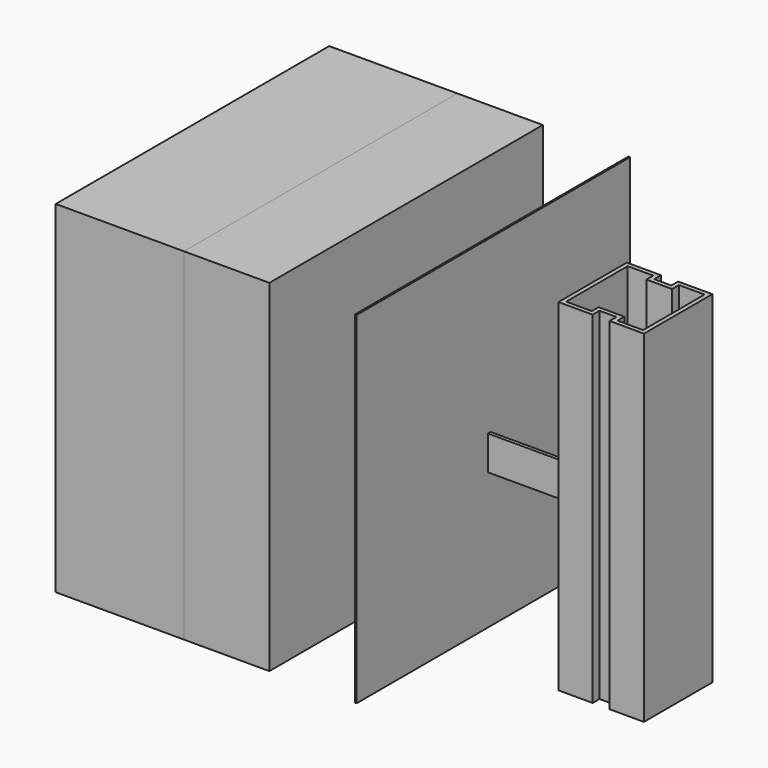
from build123d import *

# Parameters (mm, degrees)
F1_DEPTH       = 40
F3_DEPTH       = 40
F5_DEPTH       = 7.5
F6_R           = 1
F6_2_R         = 1
F9_DEPTH       = 200
F9_DEPTH_BACK  = 200
F10_W          = 150
F10_H          = 400
F11_DEPTH      = 200
F11_DEPTH_BACK = 200
F12_W          = 400
F12_H          = 400
F13_DEPTH      = 100
F16_W          = 400
F16_H          = 400
F17_DEPTH      = 2


with BuildPart() as f1:
    # F0 (on Top) → F1 (new body)
    with BuildSketch(Plane.XY):
        Polygon((125.2330060303, 64.6525276452), (-54.7669939697, 64.6525276452), (-54.7669939697, 24.6525276452), (-50.7669939697, 24.6525276452), (-50.7669939697, 60.6525276452), (125.2330060303, 60.6525276452), align=None)
    extrude(amount=F1_DEPTH)


with BuildPart() as f3:
    # F2 (on Top) → F3 (new body)
    with BuildSketch(Plane.XY):
        Polygon((275.2330060303, 60.6525276452), (95.2330060303, 60.6525276452), (95.2330060303, 56.6525276452), (271.2330060303, 56.6525276452), (271.2330060303, 20.6525276452), (275.2330060303, 20.6525276452), align=None)
    extrude(amount=F3_DEPTH)

    # F16 (on offset) → F17 (join)
    with BuildSketch(Plane.YZ.offset(145.2330060303)):
        with Locations((64.6525276452, 40)):
            Rectangle(F16_W, F16_H)
    extrude(amount=F17_DEPTH)


with BuildPart() as f5:
    # F4 (on face) → F5 (new body)
    with BuildSketch(Plane.XZ.offset(-56.6525276452)):
        Polygon((118.8932600682, 27), (118.8932600682, 37), (110.2330060303, 42), (101.5727519925, 37), (101.5727519925, 27), (110.2330060303, 22), align=None)
    extrude(amount=F5_DEPTH)

    # F6
    f6_edges = [f5.edges().sort_by_distance(p)[0] for p in [
        (105.902879, 49.152528, 39.5),
        (101.572752, 49.152528, 32),
        (105.902879, 49.152528, 24.5),
        (114.563133, 49.152528, 24.5),
        (118.89326, 49.152528, 32),
        (114.563133, 49.152528, 39.5),
    ]]
    fillet(f6_edges, radius=F6_R)


with BuildPart() as f5b:
    # F4 (on face) → F5, piece 2 (new body)
    with BuildSketch(Plane.XZ.offset(-56.6525276452)):
        Polygon((101.5727519925, 13), (101.5727519925, 3), (110.2330060303, -2), (118.8932600682, 3), (118.8932600682, 13), (110.2330060303, 18), align=None)
    extrude(amount=F5_DEPTH)

    # F6#2
    f6_2_edges = [f5b.edges().sort_by_distance(p)[0] for p in [
        (105.902879, 49.152528, 15.5),
        (101.572752, 49.152528, 8),
        (114.563133, 49.152528, 15.5),
        (118.89326, 49.152528, 8),
        (114.563133, 49.152528, 0.5),
        (105.902879, 49.152528, 0.5),
    ]]
    fillet(f6_2_edges, radius=F6_2_R)


with BuildPart() as f7_1:
    # F7: instance of F5
    add(f5.part.mirror(Plane(origin=(185.2330060303, 60.6525276452, 20), x_dir=(-1, 0, 0), z_dir=(0, 1, 0))))


with BuildPart() as f7_2:
    # F7: instance of F5b
    add(f5b.part.mirror(Plane(origin=(185.2330060303, 60.6525276452, 20), x_dir=(-1, 0, 0), z_dir=(0, 1, 0))))


with BuildPart() as f9:
    # F8 (on face) → F9 (new body, two sides)
    with BuildSketch(Plane.XY.offset(40)) as f9_sk:
        Polygon((315.2330060303, 100), (275.2330060303, 100), (275.2330060303, 0), (315.2330060303, 0), (315.2330060303, 10), (335.2330060303, 10), (335.2330060303, 0), (375.2330060303, 0), (375.2330060303, 100), (335.2330060303, 100), (335.2330060303, 90), (315.2330060303, 90), align=None)
        Polygon((280.2330060303, 5), (280.2330060303, 95), (310.2330060303, 95), (310.2330060303, 85), (340.2330060303, 85), (340.2330060303, 95), (370.2330060303, 95), (370.2330060303, 5), (340.2330060303, 5), (340.2330060303, 15), (310.2330060303, 15), (310.2330060303, 5), align=None, mode=Mode.SUBTRACT)
    extrude(amount=F9_DEPTH)
    extrude(f9_sk.sketch, amount=-F9_DEPTH_BACK)


with BuildPart() as f11:
    # F10 (on face) → F11 (new body, two sides)
    with BuildSketch(Plane.XY.offset(40)) as f11_sk:
        with Locations((-129.7669939697, 64.6525276452)):
            Rectangle(F10_W, F10_H)
    extrude(amount=F11_DEPTH)
    extrude(f11_sk.sketch, amount=-F11_DEPTH_BACK)


with BuildPart() as f13:
    # F12 (on face) → F13 (new body)
    with BuildSketch(Plane.YZ.offset(-54.7669939697)):
        with Locations((64.6525276452, 40)):
            Rectangle(F12_W, F12_H)
    extrude(amount=F13_DEPTH)


solid = Compound([f1.part, f3.part, f5.part, f5b.part, f7_1.part, f7_2.part, f9.part, f11.part, f13.part])
